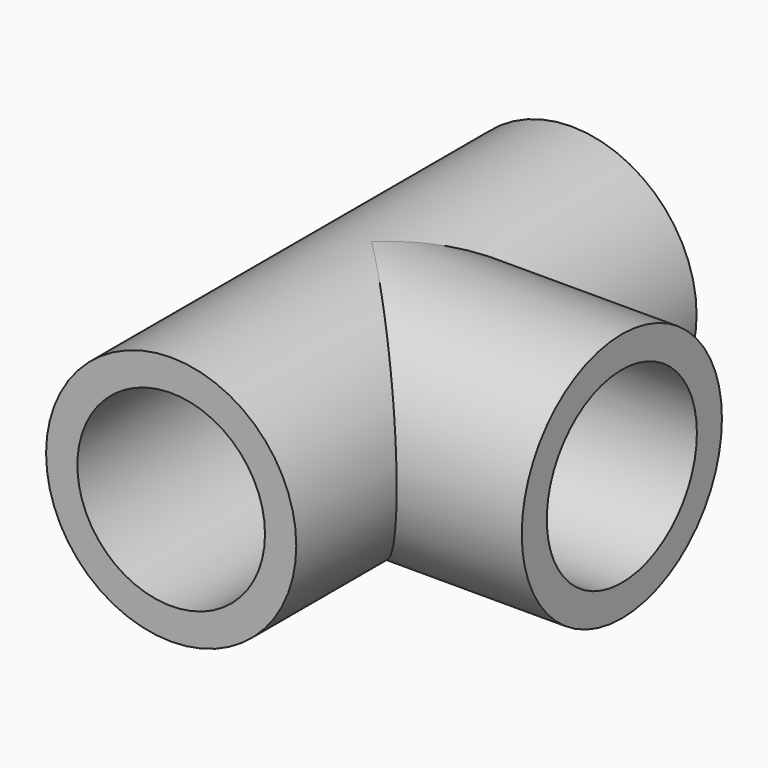
from build123d import *

# Parameters (mm, degrees)
F0_R     = 12.7
F0_R_2   = 9.525
F1_DEPTH = 50.8
F2_R     = 12.7
F4_DEPTH = 25.4
F3_R     = 9.525
F5_DEPTH = 25.4


with BuildPart() as f1:
    # F0 (on Front) → F1 (new body)
    with BuildSketch(Plane.XZ):
        Circle(F0_R)
        Circle(F0_R_2, mode=Mode.SUBTRACT)
    extrude(amount=F1_DEPTH)

    # F2 (on Right) → F4 (join)
    with BuildSketch(Plane.YZ):
        with Locations((-25.363049, 0)):
            Circle(F2_R)
    extrude(amount=F4_DEPTH)

    # F3 (on Right) → F5 (cut)
    with BuildSketch(Plane.YZ):
        with Locations((-25.363049, 0)):
            Circle(F3_R)
    extrude(amount=F5_DEPTH, mode=Mode.SUBTRACT)


solid = f1.part
